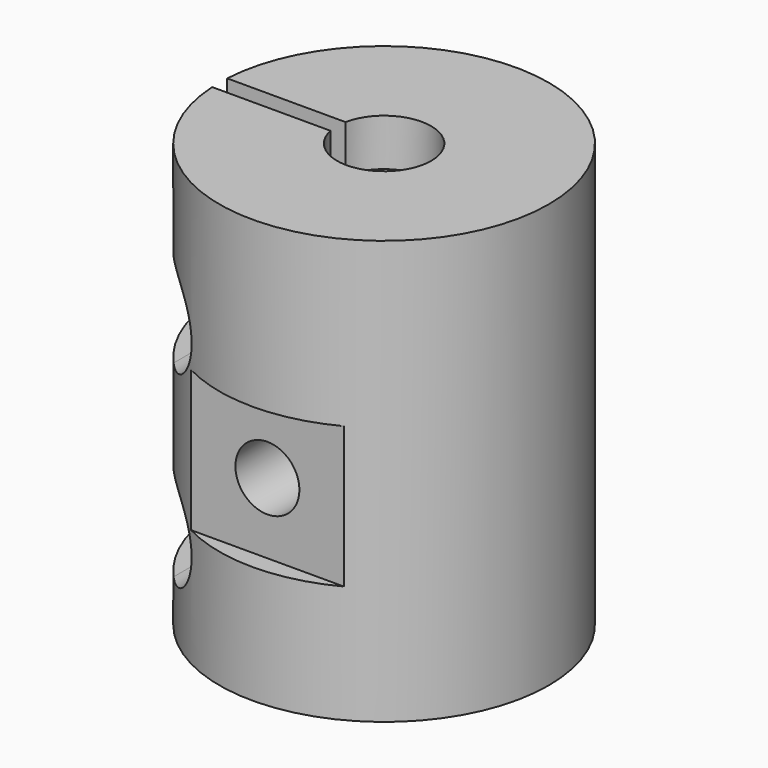
from build123d import *

# Parameters (mm, degrees)
F0_R      = 17.5
F0_R_2    = 8
F1_DEPTH  = 40
F4_DEPTH  = 15
F6_R      = 17.5
F6_R_2    = 5
F7_DEPTH  = 5
F5_W      = 20
F5_H      = 2
F8_DEPTH  = 45.001
F9_R      = 3.4
F10_DEPTH = 20
F11_W     = 20
F11_H     = 15
F12_DEPTH = 2
F13_R     = 2.1
F14_DEPTH = 25
F13_R_2   = 2.5
F15_DEPTH = 5
F16_R     = 2.1
F17_DEPTH = 25
F18_R     = 2.5
F19_DEPTH = 5


with BuildPart() as f1:
    # F0 (on Top) → F1 (new body)
    with BuildSketch(Plane.XY):
        Circle(F0_R)
        Circle(F0_R_2, mode=Mode.SUBTRACT)
    extrude(amount=F1_DEPTH)

    # F3 (on offset) → F4 (cut)
    with BuildSketch(Plane.XZ.offset(17.5)):
        with BuildLine():
            Line((-18, 5), (-13, 5))
            ThreePointArc((-13, 5), (-8, 10), (-13, 15))
            Line((-13, 15), (-18, 15))
            Line((-18, 15), (-18, 5))
        make_face()
        with BuildLine():
            Line((-18, 25), (-13, 25))
            ThreePointArc((-13, 25), (-8, 30), (-13, 35))
            Line((-13, 35), (-18, 35))
            Line((-18, 35), (-18, 25))
        make_face()
    extrude(amount=-F4_DEPTH, mode=Mode.SUBTRACT)

    # F6 (on face) → F7 (join)
    with BuildSketch(Plane.XY.offset(40)):
        Circle(F6_R)
        Circle(F6_R_2, mode=Mode.SUBTRACT)
    extrude(amount=F7_DEPTH)

    # F5 (on face) → F8 (cut, through all)
    with BuildSketch(Plane(origin=(0, 0, 0), x_dir=(1, 0, 0), z_dir=(0, 0, -1))):
        with Locations((-10, 0)):
            Rectangle(F5_W, F5_H)
    extrude(amount=-F8_DEPTH, mode=Mode.SUBTRACT)

    # F9 (on offset) → F10 (cut)
    with BuildSketch(Plane.XZ.offset(17.5)):
        with Locations((0, 20)):
            Circle(F9_R)
    extrude(amount=-F10_DEPTH, mode=Mode.SUBTRACT)

    # F11 (on offset) → F12 (cut)
    with BuildSketch(Plane.XZ.offset(17.5)):
        with Locations((0, 20)):
            Rectangle(F11_W, F11_H)
    extrude(amount=-F12_DEPTH, mode=Mode.SUBTRACT)

    # F13 (on face) → F14 (cut)
    with BuildSketch(Plane.XZ.offset(2.5)):
        with Locations((-13, 30)):
            Circle(F13_R)
    extrude(amount=-F14_DEPTH, mode=Mode.SUBTRACT)

    # F13 (on face) → F15 (cut)
    with BuildSketch(Plane.XZ.offset(2.5)):
        with Locations((-13, 30)):
            Circle(F13_R_2)
        with Locations((-13, 30)):
            Circle(F13_R, mode=Mode.SUBTRACT)
    extrude(amount=-F15_DEPTH, mode=Mode.SUBTRACT)

    # F16 (on face) → F17 (cut)
    with BuildSketch(Plane.XZ.offset(2.5)):
        with Locations((-13, 10)):
            Circle(F16_R)
    extrude(amount=-F17_DEPTH, mode=Mode.SUBTRACT)

    # F18 (on face) → F19 (cut)
    with BuildSketch(Plane.XZ.offset(2.5)):
        with Locations((-13, 10)):
            Circle(F18_R)
    extrude(amount=-F19_DEPTH, mode=Mode.SUBTRACT)


solid = f1.part
